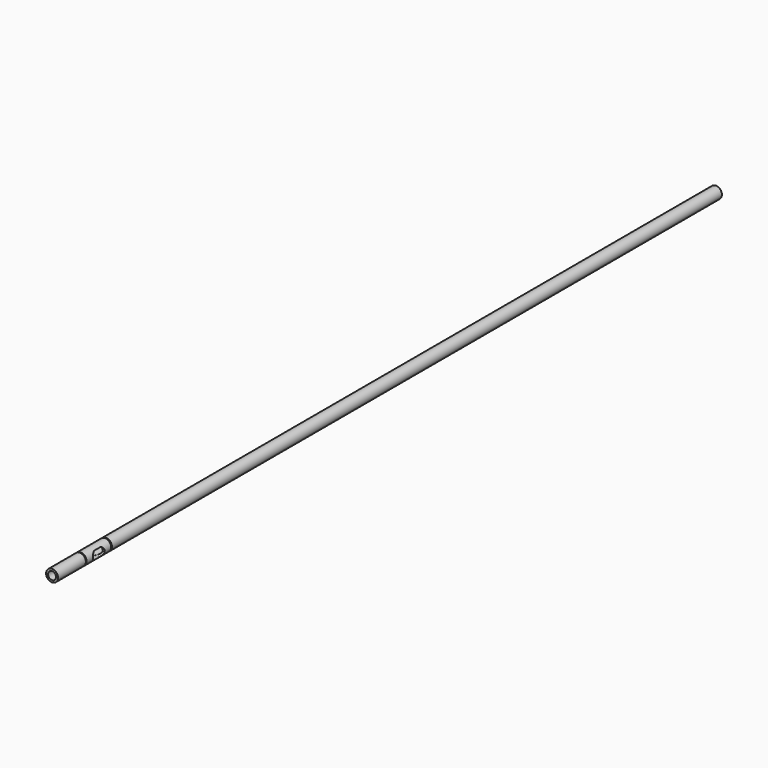
from build123d import *

# Parameters (mm, degrees)
F0_R     = 4.7625
F0_R_2   = 3.175
F1_DEPTH = 660.4
F3_DEPTH = 25.4
F4_W     = 0.79375
F4_H     = 0.79375


with BuildPart() as f1:
    # F0 (on Front) → F1 (new body)
    with BuildSketch(Plane.XZ):
        Circle(F0_R)
        Circle(F0_R_2, mode=Mode.SUBTRACT)
    extrude(amount=-F1_DEPTH)

    # F2 (on Right) → F3 (cut)
    with BuildSketch(Plane.YZ):
        with BuildLine():
            Line((43.18, 3.302), (38.1, 3.302))
            ThreePointArc((38.1, 3.302), (34.798, 0), (38.1, -3.302))
            Line((38.1, -3.302), (43.18, -3.302))
            ThreePointArc((43.18, -3.302), (46.482, 0), (43.18, 3.302))
        make_face()
    extrude(amount=F3_DEPTH, mode=Mode.SUBTRACT)

    # F4 (on Right) → F5 (revolve, cut)
    with BuildSketch(Plane.YZ):
        with Locations((28.051125, -4.365625)):
            Rectangle(F4_W, F4_H)
        with Locations((53.228875, -4.365625)):
            Rectangle(F4_W, F4_H)
    revolve(axis=Axis((0, 0, 0), (0, -1, 0)), mode=Mode.SUBTRACT)


solid = f1.part
